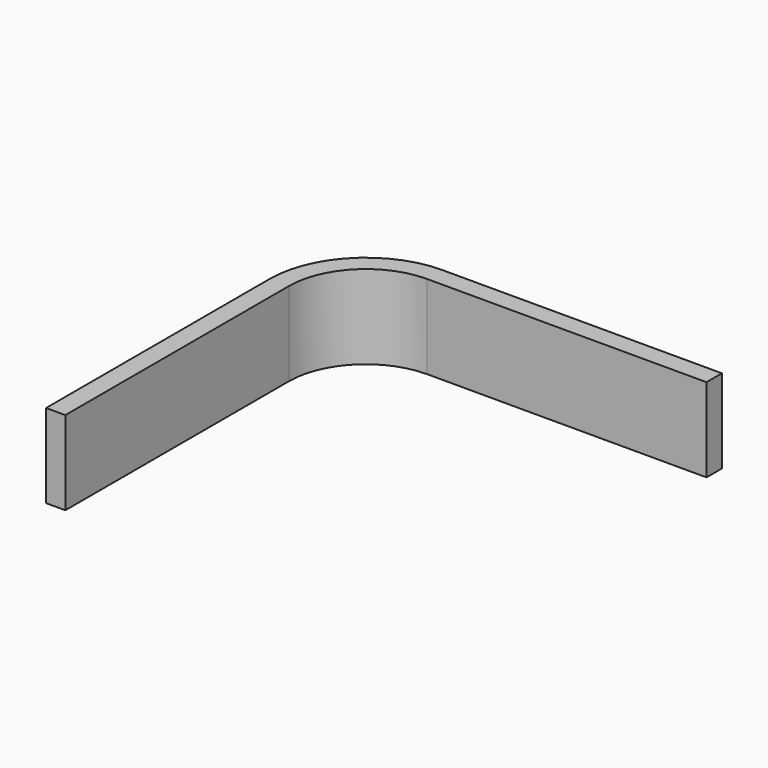
from build123d import *

# Parameters (mm, degrees)
SKETCH016_W = 1.38
SKETCH016_H = 6


with BuildPart() as part:
    # AdditivePipe005: sweep along a path in Sketch015
    with BuildLine(Plane.XY) as additivepipe005_path:
        Line((26.88, 5.5), (6.88, 5.5))
        ThreePointArc((6.88, 5.5), (2.990913, 3.889087), (1.38, 0))
        Line((1.38, 0), (1.38, -20))
    # Sketch016 → AdditivePipe005 (sweep)
    with BuildSketch(Plane.XZ):
        with Locations((0.69, 3)):
            Rectangle(SKETCH016_W, SKETCH016_H)
    sweep(path=additivepipe005_path.line)


solid = part.part
